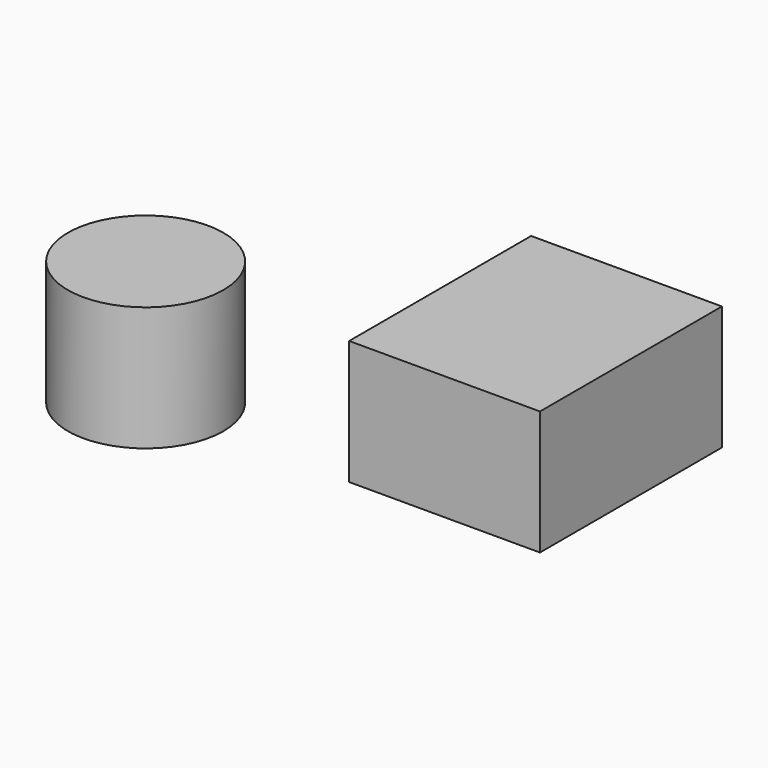
from build123d import *

# Parameters (mm, degrees)
F0_W     = 39.019655
F0_H     = 46.508277
F0_R     = 15.895539
F1_DEPTH = 25.4


with BuildPart() as f1:
    # F0 (on Top) → F1 (new body)
    with BuildSketch(Plane.XY):
        with Locations((10.247586, 0.788277)):
            Rectangle(F0_W, F0_H)
        with Locations((-51.829137, -21.283448)):
            Circle(F0_R)
    extrude(amount=-F1_DEPTH)


solid = f1.part
